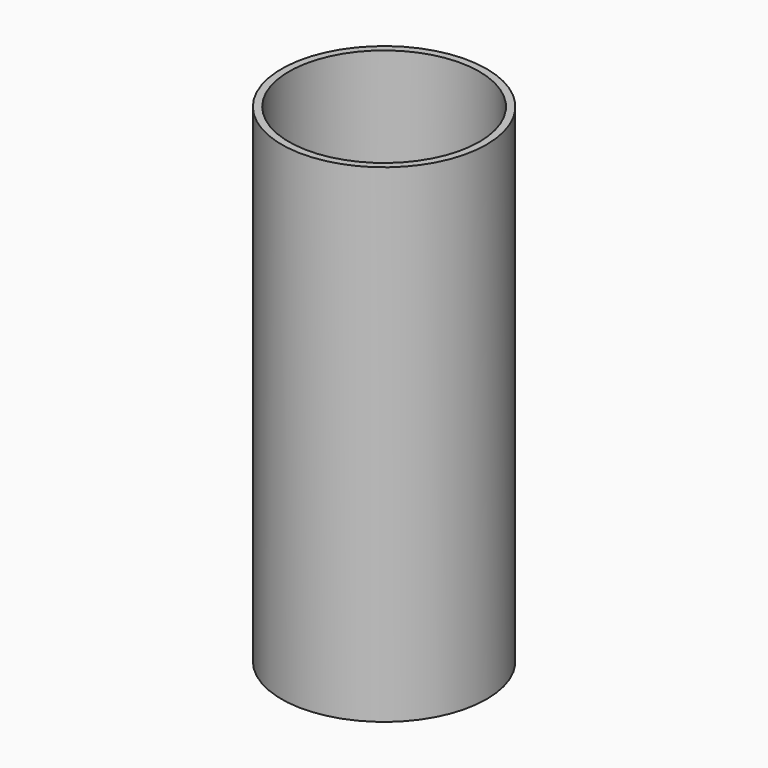
from build123d import *

# Parameters (mm, degrees)
F0_R     = 21
F0_R_2   = 19.5
F1_DEPTH = 100
F3_R     = 21
F3_R_2   = 18
F4_DEPTH = 2


with BuildPart() as f1:
    # F0 (on Top) → F1 (new body)
    with BuildSketch(Plane.XY):
        Circle(F0_R)
        Circle(F0_R_2, mode=Mode.SUBTRACT)
    extrude(amount=F1_DEPTH)

    # F3 (on face) → F4 (join)
    with BuildSketch(Plane(origin=(0, 0, 0), x_dir=(1, 0, 0), z_dir=(0, 0, -1))):
        Circle(F3_R)
        Circle(F3_R_2, mode=Mode.SUBTRACT)
    extrude(amount=-F4_DEPTH)


solid = f1.part
